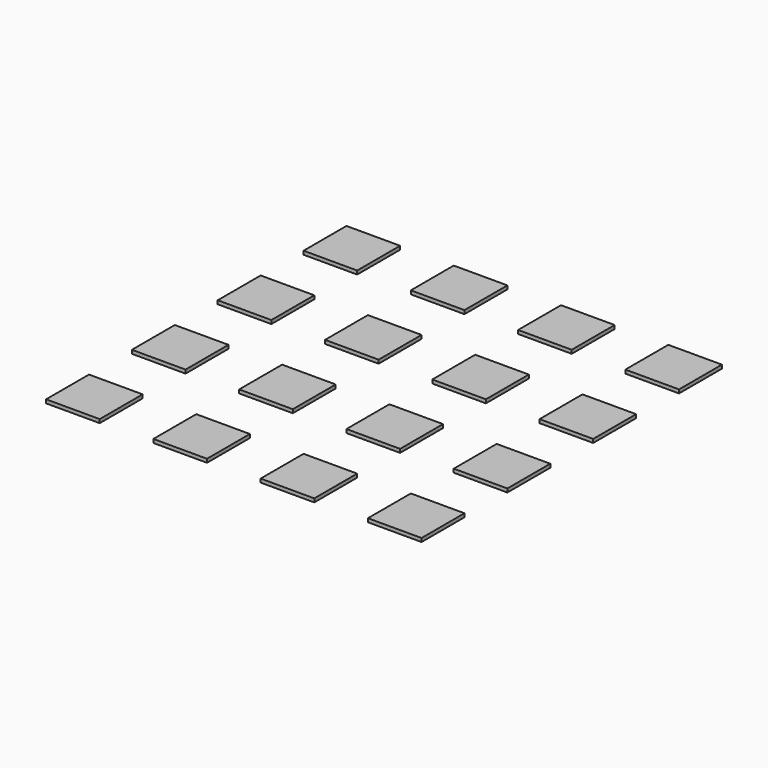
from build123d import *

# Parameters (mm, degrees)
SKETCH020_W      = 30
SKETCH020_H      = 30
PAD006_DEPTH     = 2
ARRAY008_X_COUNT = 4
ARRAY008_X_PITCH = 60
ARRAY008_Y_COUNT = 4
ARRAY008_Y_PITCH = 60


with BuildPart() as part:
    # Sketch020 → Pad006 (new body)
    with BuildSketch(Plane.XY):
        with Locations((30, 0)):
            Rectangle(SKETCH020_W, SKETCH020_H)
    extrude(amount=-PAD006_DEPTH)

    # Array008 X: part ×4


with BuildPart() as part_1:
    add(part.part)
    with Locations(*[(i * ARRAY008_X_PITCH, 0, 0) for i in range(1, ARRAY008_X_COUNT)]):
        add(part.part)

    # Array008 Y: part ×4


with BuildPart() as part_2:
    add(part_1.part)
    with Locations(*[(0, i * ARRAY008_Y_PITCH, 0) for i in range(1, ARRAY008_Y_COUNT)]):
        add(part_1.part)


solid = part_2.part
